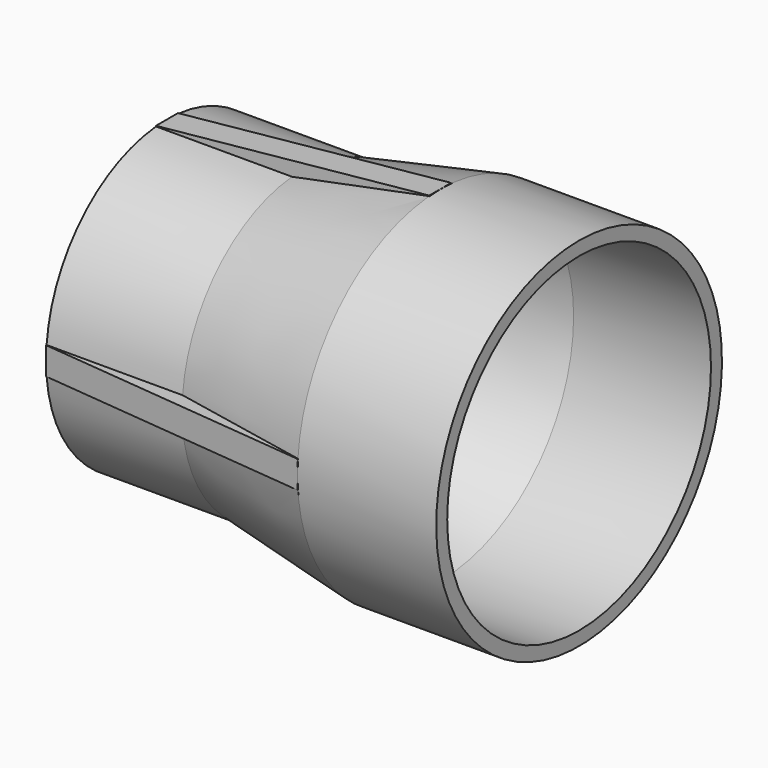
from build123d import *

# Parameters (mm, degrees)
F3_DEPTH = 2.54
F4_COUNT = 4


with BuildPart() as f1:
    # F0 (on Front) → F1 (revolve)
    with BuildSketch(Plane.XZ):
        Polygon((-15.9417227864, 25.4), (9.4582772136, 25.4), (34.8582772136, 30.48), (60.2582772136, 30.48), (60.2582772136, 33.02), (34.606767649, 33.02), (9.206767649, 27.94), (-15.9417227864, 27.94), align=None)
    revolve(axis=Axis((9.6230469644, 0, 0), (-1, 0, 0)))

    # F2 (on Front) → F3 (join, symmetric)
    with BuildSketch(Plane.XZ):
        Polygon((-15.9417227864, 26.67), (9.3325224313, 26.67), (34.8202880916, 31.767553132), (34.5712205999, 33.0128905902), (-15.9417227864, 27.94), align=None)
    extrude(amount=F3_DEPTH, both=True)

    # F4: F1 ×4 about axis
    f4_axis = Axis((9.6230469644, 0, 0), (-1, 0, 0))


with BuildPart() as f1_1:
    add(f1.part)
    for i in range(1, F4_COUNT):
        add(f1.part.rotate(f4_axis, i * 360 / F4_COUNT))


solid = f1_1.part
